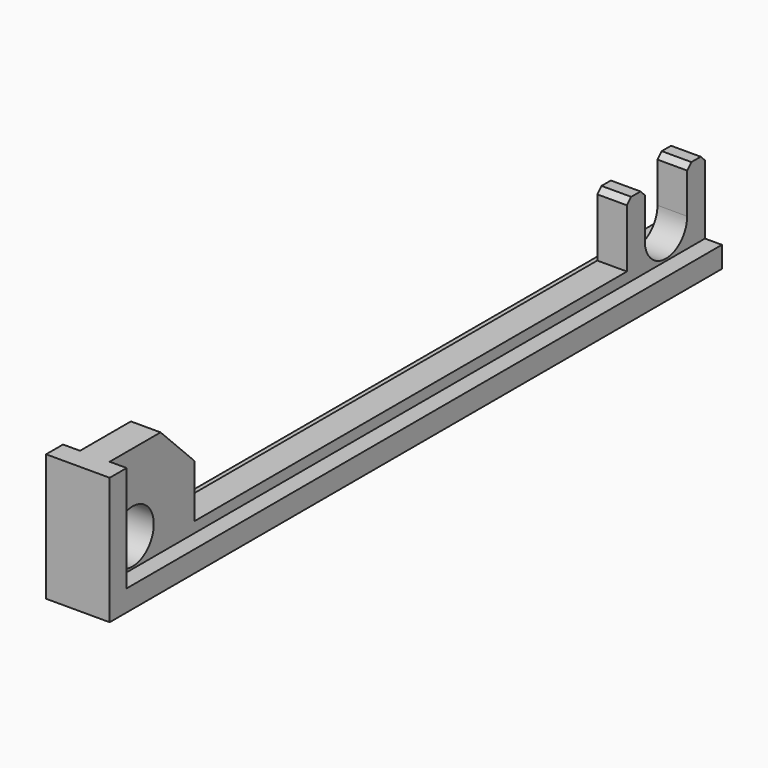
from build123d import *

# Parameters (mm, degrees)
F0_W      = 6
F0_H      = 10
F1_DEPTH  = 2
F2_W      = 2.8
F2_H      = 10
F3_DEPTH  = 10
F4_DEPTH  = 3
F5_DEPTH  = 0.8
F7_DEPTH  = 25
F8_SIZE   = 0.5
F10_DEPTH = 63
F11_W     = 6
F11_H     = 2
F12_DEPTH = 10
F13_W     = 2.8
F13_H     = 10
F14_DEPTH = 10
F15_R     = 2.5
F16_DEPTH = 25
F17_SIZE  = 4
F18_W     = 2.8
F18_H     = 51
F19_DEPTH = 1


with BuildPart() as f1:
    # F0 (on Top) → F1 (new body)
    with BuildSketch(Plane.XY):
        with Locations((3, -5)):
            Rectangle(F0_W, F0_H)
    extrude(amount=F1_DEPTH)

    # F2 (on face) → F3 (join)
    with BuildSketch(Plane.XY.offset(2)):
        with Locations((3, -5)):
            Rectangle(F2_W, F2_H)
    extrude(amount=F3_DEPTH)

    # F4 (cut): a face of the model
    f4_faces = [f1.faces().sort_by_distance(p)[0] for p in [
        (3, -5, 12),
    ]]
    extrude(f4_faces, amount=-F4_DEPTH, mode=Mode.SUBTRACT)

    # F5 (cut): a face of the model
    f5_faces = [f1.faces().sort_by_distance(p)[0] for p in [
        (3, 0, 3.7911392405),
    ]]
    extrude(f5_faces, amount=-F5_DEPTH, mode=Mode.SUBTRACT)

    # F6 (on face) → F7 (cut)
    with BuildSketch(Plane.YZ.offset(4.4)):
        with BuildLine():
            Line((-7.9, 9), (-7.9, 4.7))
            ThreePointArc((-7.9, 4.7), (-5.4, 2.2), (-2.9, 4.7))
            Line((-2.9, 4.7), (-2.9, 9))
            Line((-2.9, 9), (-7.9, 9))
        make_face()
    extrude(amount=-F7_DEPTH, mode=Mode.SUBTRACT)

    # F8
    f8_edges = [f1.edges().sort_by_distance(p)[0] for p in [
        (3, -7.9, 9),
        (3, -2.9, 9),
        (3, -10, 9),
        (3, -0.8, 9),
    ]]
    chamfer(f8_edges, length=F8_SIZE)

    # F9 (on face) → F10 (join)
    with BuildSketch(Plane.XZ.offset(10)):
        Polygon((1.6, 2), (0, 2), (0, 0), (6, 0), (6, 2), (4.4, 2), align=None)
    extrude(amount=F10_DEPTH)

    # F11 (on face) → F12 (join)
    with BuildSketch(Plane.XY.offset(2)):
        with Locations((3, -72)):
            Rectangle(F11_W, F11_H)
    extrude(amount=F12_DEPTH)

    # F13 (on face) → F14 (join)
    with BuildSketch(Plane(origin=(0, -71, 0), x_dir=(-1, 0, 0), z_dir=(0, 1, 0))):
        with Locations((-3, 7)):
            Rectangle(F13_W, F13_H)
    extrude(amount=F14_DEPTH)

    # F15 (on face) → F16 (cut)
    with BuildSketch(Plane(origin=(1.6, 0, 0), x_dir=(0, -1, 0), z_dir=(-1, 0, 0))):
        with Locations((68.3, 4.7)):
            Circle(F15_R)
    extrude(amount=-F16_DEPTH, mode=Mode.SUBTRACT)

    # F17
    f17_edges = [f1.edges().sort_by_distance(p)[0] for p in [
        (3, -61, 12),
    ]]
    chamfer(f17_edges, length=F17_SIZE)

    # F18 (on face) → F19 (join)
    with BuildSketch(Plane.XY.offset(2)):
        with Locations((3, -35.5)):
            Rectangle(F18_W, F18_H)
    extrude(amount=F19_DEPTH)


solid = f1.part
